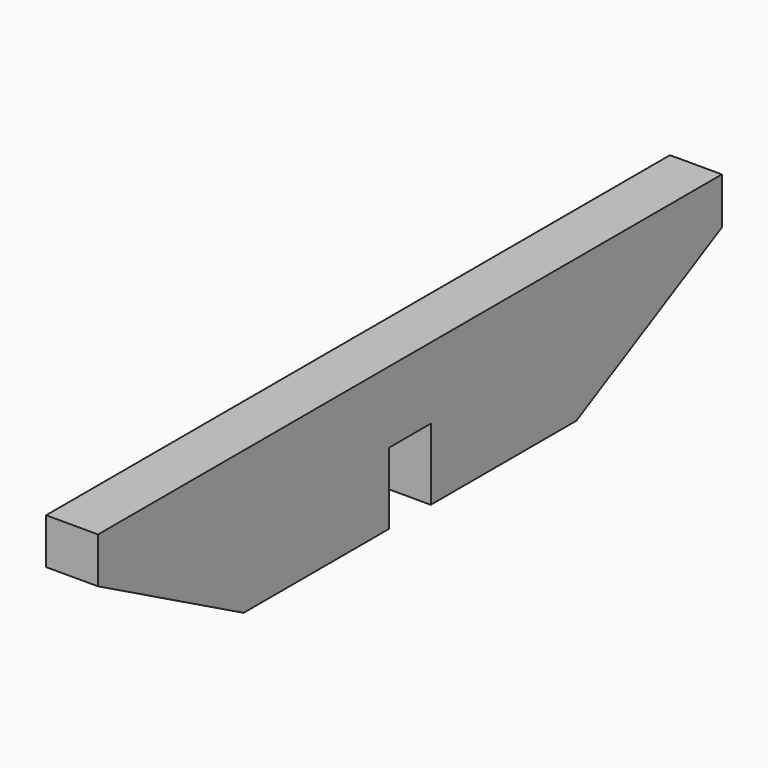
from build123d import *

# Parameters (mm, degrees)
F0_W     = 50.8
F0_H     = 69.85
F1_DEPTH = 50.8


with BuildPart() as f1:
    # F0 (on Right) → F1 (new body)
    with BuildSketch(Plane.YZ):
        Polygon((-177.8, -27.121778), (0, -27.121778), (0, 42.728222), (0, 112.578222), (-355.6, 112.578222), (-355.6, 67.942142), align=None)
        with Locations((25.4, 77.653222)):
            Rectangle(F0_W, F0_H)
        Polygon((50.8, 112.578222), (50.8, 42.728222), (50.8, -27.121778), (228.6, -27.121778), (406.4, 66.987783), (406.4, 112.578222), align=None)
    extrude(amount=F1_DEPTH)


solid = f1.part
